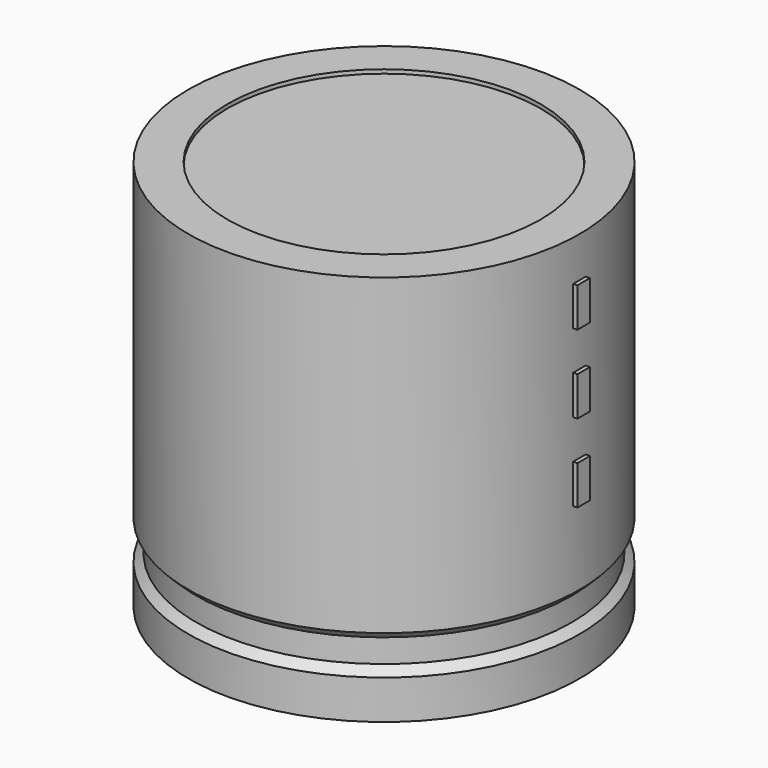
from build123d import *

# Parameters (mm, degrees)
SKETCH002_W   = 11.5
SKETCH002_H   = 24.5
SKETCH003_R   = 0.85
SKETCH003_R_2 = 1.1
PAD_DEPTH     = 5.5
SKETCH004_W   = 1
SKETCH004_H   = 2.5
PAD001_DEPTH  = 12.75


with BuildPart() as revolution:
    # Sketch → Revolution (revolve)
    with BuildSketch(Plane.XZ):
        Polygon((-7.5, 0.1), (-7.5, 2.6), (-7, 3.1), (-7, 4.6), (-7.5, 5.1), (-7.5, 25.1), (-5, 25.1), (-5, 0.1), align=None)
    revolve(axis=Axis((5, 0, 7.548619), (0, 0, -1)))


with BuildPart() as revolution001:
    # Sketch002 → Revolution001 (revolve)
    with BuildSketch(Plane.XZ):
        with Locations((-0.75, 12.6)):
            Rectangle(SKETCH002_W, SKETCH002_H)
    revolve(axis=Axis((5, 0, 4.680116), (0, 0, -1)))


with BuildPart() as pad:
    # Sketch003 → Pad (new body)
    with BuildSketch(Plane.XY.offset(2.5)):
        Circle(SKETCH003_R)
        with Locations((10, 0)):
            Circle(SKETCH003_R)
        with Locations((6.7, 4.75)):
            Circle(SKETCH003_R_2)
    extrude(amount=-PAD_DEPTH)


with BuildPart() as pad001:
    # Sketch004 → Pad001 (new body)
    with BuildSketch(Plane.YZ.offset(5)):
        with Locations((0, 11.25)):
            Rectangle(SKETCH004_W, SKETCH004_H)
        with Locations((0, 16.25)):
            Rectangle(SKETCH004_W, SKETCH004_H)
        with Locations((0, 21.25)):
            Rectangle(SKETCH004_W, SKETCH004_H)
    extrude(amount=PAD001_DEPTH)


solid = Compound([revolution.part, revolution001.part, pad.part, pad001.part])
